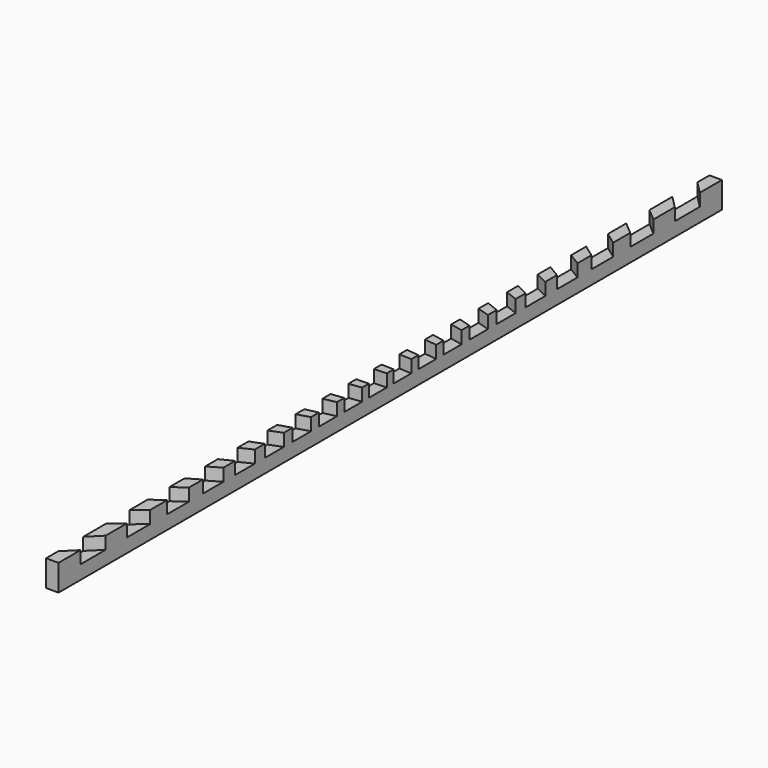
from build123d import *

# Parameters (mm, degrees)
SKETCH_W             = 120
SKETCH_H             = 1.8
PAD_DEPTH            = 3.8
SKETCH001_W          = 3.2
SKETCH001_H          = 3
POCKET_DEPTH         = 325.418725
POLARPATTERN_COUNT   = 20
POLARPATTERN_ANGLE   = 90
BODY_PLACEMENT_ANGLE = 45


with BuildPart() as part:
    # Sketch → Pad (new body)
    with BuildSketch(Plane(origin=(-38, 38, 0), x_dir=(0.707107, 0.707107, 0), z_dir=(0, 0, 1))):
        with Locations((0, 0.9)):
            Rectangle(SKETCH_W, SKETCH_H)
    extrude(amount=PAD_DEPTH)

    # Sketch001 → Pocket (cut, through all)
    with BuildSketch(Plane.XZ):
        with Locations((0, 3.5)):
            Rectangle(SKETCH001_W, SKETCH001_H)
    pocket = extrude(amount=-POCKET_DEPTH, mode=Mode.SUBTRACT)

    # PolarPattern: Pocket ×20 about axis
    polarpattern_axis = Axis((0, 0, 0), (0, 0, 1))
    for i in range(1, POLARPATTERN_COUNT):
        add(pocket.rotate(polarpattern_axis, i * POLARPATTERN_ANGLE / (POLARPATTERN_COUNT - 1)), mode=Mode.SUBTRACT)


with BuildPart() as part_1:
    # Body placement: moved
    add(part.part.rotate(Axis((0, 0, 0), (0, 0, 1)), BODY_PLACEMENT_ANGLE))


solid = part_1.part
